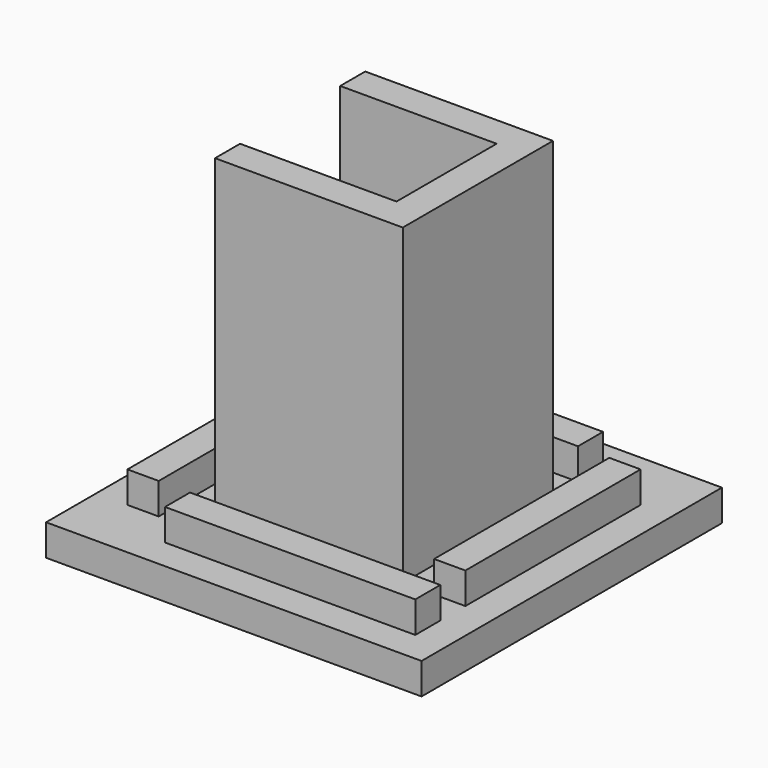
from build123d import *

# Parameters (mm, degrees)
F0_W     = 60
F0_H     = 60
F1_DEPTH = 5
F2_W     = 40
F2_H     = 5
F2_W_2   = 5
F2_H_2   = 35
F3_DEPTH = 5
F4_W     = 25
F4_H     = 5
F5_DEPTH = 50


with BuildPart() as f1:
    # F0 (on Top) → F1 (new body)
    with BuildSketch(Plane.XY):
        with Locations((30, 30)):
            Rectangle(F0_W, F0_H)
    extrude(amount=F1_DEPTH)

    # F2 (on face) → F3 (join)
    with BuildSketch(Plane.XY.offset(5)):
        with Locations((35, 7.5)):
            Rectangle(F2_W, F2_H)
        with Locations((52.5, 32.5)):
            Rectangle(F2_W_2, F2_H_2)
        with Locations((25, 52.5)):
            Rectangle(F2_W, F2_H)
        with Locations((7.5, 27.5)):
            Rectangle(F2_W_2, F2_H_2)
    extrude(amount=F3_DEPTH)

    # F4 (on face) → F5 (join)
    with BuildSketch(Plane.XY.offset(5)):
        Polygon((45, 45), (40, 45), (40, 40), (40, 20), (40, 15), (45, 15), align=None)
        with Locations((27.5, 42.5)):
            Rectangle(F4_W, F4_H)
        with Locations((27.5, 17.5)):
            Rectangle(F4_W, F4_H)
    extrude(amount=F5_DEPTH)


solid = f1.part
